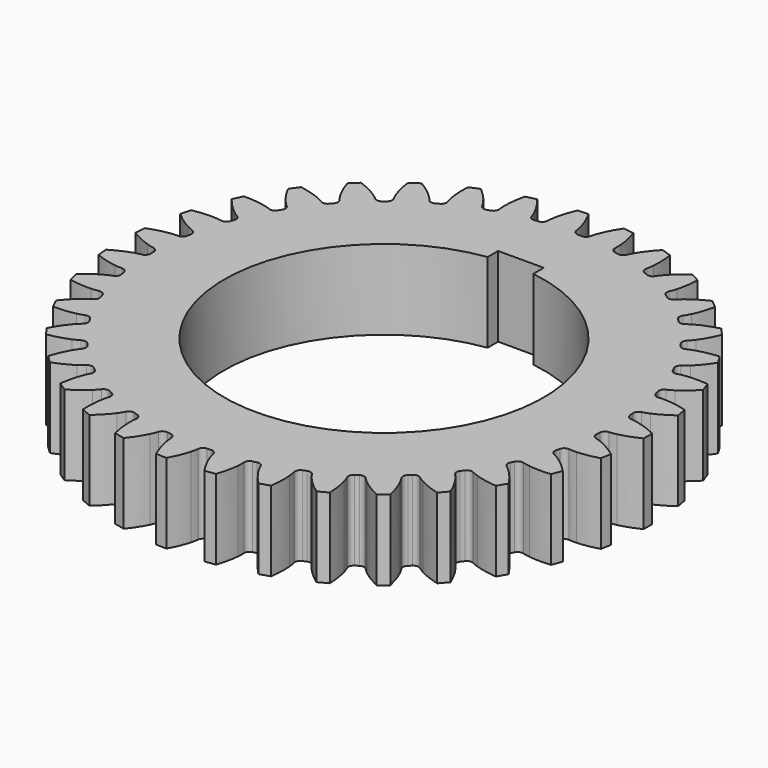
from build123d import *

# Parameters (mm, degrees)
PAD_DEPTH    = 7
POCKET_DEPTH = 7.001


with BuildPart() as part:
    # InvoluteGear001 → Pad (new body)
    with BuildSketch(Plane.XY):
        with BuildLine():
            add(Edge.make_bspline(
                [(20.694765, -1.22336), (20.829637, -1.213752), (21.040766, -1.188546), (21.325132, -1.124517)],
                knots=[0, 0, 0, 0, 1, 1, 1, 1], degree=3))
            add(Edge.make_bspline(
                [(21.325132, -1.124517), (21.76591, -1.025006), (22.374711, -0.833902), (23.121147, -0.468705)],
                knots=[0, 0, 0, 0, 1, 1, 1, 1], degree=3))
            ThreePointArc((23.121147, -0.468705), (23.125449, 0.000168), (23.120243, 0.469032))
            add(Edge.make_bspline(
                [(23.120243, 0.469032), (22.374711, 0.833902), (21.76591, 1.025006), (21.325132, 1.124517)],
                knots=[0, 0, 0, 0, 1, 1, 1, 1], degree=3))
            add(Edge.make_bspline(
                [(21.325132, 1.124517), (21.040766, 1.188546), (20.829637, 1.213752), (20.69493, 1.223341)],
                knots=[0, 0, 0, 0, 1, 1, 1, 1], degree=3))
            ThreePointArc((20.69493, 1.223341), (20.387577, 1.356587), (20.244595, 1.659532))
            ThreePointArc((20.244595, 1.659532), (20.230728, 1.820798), (20.215577, 1.981949))
            ThreePointArc((20.215577, 1.981949), (20.302125, 2.305483), (20.580631, 2.491493))
            add(Edge.make_bspline(
                [(20.580631, 2.491493), (20.71162, 2.525028), (20.914855, 2.587528), (21.183219, 2.701304)],
                knots=[0, 0, 0, 0, 1, 1, 1, 1], degree=3))
            add(Edge.make_bspline(
                [(21.183219, 2.701304), (21.599145, 2.87792), (22.164039, 3.174658), (22.833271, 3.667267)],
                knots=[0, 0, 0, 0, 1, 1, 1, 1], degree=3))
            ThreePointArc((22.833271, 3.667267), (22.753783, 4.129373), (22.664942, 4.589773))
            add(Edge.make_bspline(
                [(22.664942, 4.589773), (21.866241, 4.81566), (21.233101, 4.894987), (20.781638, 4.914195)],
                knots=[0, 0, 0, 0, 1, 1, 1, 1], degree=3))
            add(Edge.make_bspline(
                [(20.781638, 4.914195), (20.490409, 4.926419), (20.278172, 4.913522), (20.143918, 4.898904)],
                knots=[0, 0, 0, 0, 1, 1, 1, 1], degree=3))
            ThreePointArc((20.143918, 4.898904), (19.817713, 4.975129), (19.622935, 5.247675))
            ThreePointArc((19.622935, 5.247675), (19.580496, 5.403873), (19.536813, 5.559729))
            ThreePointArc((19.536813, 5.559729), (19.564202, 5.893518), (19.805019, 6.126267))
            add(Edge.make_bspline(
                [(19.805019, 6.126267), (19.927914, 6.182653), (20.116724, 6.280437), (20.360459, 6.440302)],
                knots=[0, 0, 0, 0, 1, 1, 1, 1], degree=3))
            add(Edge.make_bspline(
                [(20.360459, 6.440302), (20.738165, 6.688346), (21.240997, 7.081182), (21.811515, 7.685371)],
                knots=[0, 0, 0, 0, 1, 1, 1, 1], degree=3))
            ThreePointArc((21.811515, 7.685371), (21.650793, 8.125858), (21.481172, 8.562995))
            add(Edge.make_bspline(
                [(21.481172, 8.562995), (20.654972, 8.642639), (20.017843, 8.607639), (19.570205, 8.545926)],
                knots=[0, 0, 0, 0, 1, 1, 1, 1], degree=3))
            add(Edge.make_bspline(
                [(19.570205, 8.545926), (19.281474, 8.505953), (19.07495, 8.455367), (18.945463, 8.417012)],
                knots=[0, 0, 0, 0, 1, 1, 1, 1], degree=3))
            ThreePointArc((18.945463, 8.417012), (18.61089, 8.433766), (18.370577, 8.667153))
            ThreePointArc((18.370577, 8.667153), (18.30093, 8.813263), (18.230121, 8.958814))
            ThreePointArc((18.230121, 8.958814), (18.197469, 9.292129), (18.392857, 9.564138))
            add(Edge.make_bspline(
                [(18.392857, 9.564138), (18.503709, 9.641561), (18.672024, 9.771488), (18.883298, 9.972305)],
                knots=[0, 0, 0, 0, 1, 1, 1, 1], degree=3))
            add(Edge.make_bspline(
                [(18.883298, 9.972305), (19.210644, 10.283804), (19.635251, 10.76011), (20.088719, 11.45646)],
                knots=[0, 0, 0, 0, 1, 1, 1, 1], degree=3))
            ThreePointArc((20.088719, 11.45646), (19.851927, 11.86117), (19.606979, 12.260996))
            add(Edge.make_bspline(
                [(19.606979, 12.260996), (18.779835, 12.191835), (18.159194, 12.043635), (17.72977, 11.902985)],
                knots=[0, 0, 0, 0, 1, 1, 1, 1], degree=3))
            add(Edge.make_bspline(
                [(17.72977, 11.902985), (17.452816, 11.812099), (17.258644, 11.72545), (17.138087, 11.66459)],
                knots=[0, 0, 0, 0, 1, 1, 1, 1], degree=3))
            ThreePointArc((17.138087, 11.66459), (16.805899, 11.621334), (16.527775, 11.808062))
            ThreePointArc((16.527775, 11.808062), (16.433158, 11.939388), (16.337497, 12.069956))
            ThreePointArc((16.337497, 12.069956), (16.245854, 12.392085), (16.389533, 12.69461))
            add(Edge.make_bspline(
                [(16.389533, 12.69461), (16.48478, 12.790582), (16.627191, 12.948475), (16.799212, 13.183788)],
                knots=[0, 0, 0, 0, 1, 1, 1, 1], degree=3))
            add(Edge.make_bspline(
                [(16.799212, 13.183788), (17.065677, 13.548732), (17.398413, 14.093201), (17.720256, 14.859329)],
                knots=[0, 0, 0, 0, 1, 1, 1, 1], degree=3))
            ThreePointArc((17.720256, 14.859329), (17.415005, 15.215255), (17.102601, 15.564918))
            add(Edge.make_bspline(
                [(17.102601, 15.564918), (16.301099, 15.349177), (15.716895, 15.092538), (15.319485, 14.877472)],
                knots=[0, 0, 0, 0, 1, 1, 1, 1], degree=3))
            add(Edge.make_bspline(
                [(15.319485, 14.877472), (15.06321, 14.738594), (14.88763, 14.618667), (14.779877, 14.537259)],
                knots=[0, 0, 0, 0, 1, 1, 1, 1], degree=3))
            ThreePointArc((14.779877, 14.537259), (14.460752, 14.435384), (14.153756, 14.569449))
            ThreePointArc((14.153756, 14.569449), (14.03721, 14.681771), (13.919773, 14.79316))
            ThreePointArc((13.919773, 14.79316), (13.772085, 15.093748), (13.859437, 15.417066))
            add(Edge.make_bspline(
                [(13.859437, 15.417066), (13.936016, 15.528503), (14.047945, 15.709287), (14.175185, 15.971535)],
                knots=[0, 0, 0, 0, 1, 1, 1, 1], degree=3))
            add(Edge.make_bspline(
                [(14.175185, 15.971535), (14.372205, 16.378193), (14.602375, 16.973324), (14.782248, 17.784608)],
                knots=[0, 0, 0, 0, 1, 1, 1, 1], degree=3))
            ThreePointArc((14.782248, 17.784608), (14.41835, 18.080309), (14.048532, 18.36857))
            add(Edge.make_bspline(
                [(14.048532, 18.36857), (13.298433, 18.013183), (12.769441, 17.656355), (12.41682, 17.373784)],
                knots=[0, 0, 0, 0, 1, 1, 1, 1], degree=3))
            add(Edge.make_bspline(
                [(12.41682, 17.373784), (12.18946, 17.191379), (12.038116, 17.042028), (11.946631, 16.942689)],
                knots=[0, 0, 0, 0, 1, 1, 1, 1], degree=3))
            ThreePointArc((11.946631, 16.942689), (11.650824, 16.785468), (11.324824, 16.862563))
            ThreePointArc((11.324824, 16.862563), (11.190095, 16.952269), (11.054656, 17.040899))
            ThreePointArc((11.054656, 17.040899), (10.855669, 17.310286), (10.883886, 17.644006))
            add(Edge.make_bspline(
                [(10.883886, 17.644006), (10.939337, 17.767326), (11.017188, 17.96519), (11.095556, 18.245943)],
                knots=[0, 0, 0, 0, 1, 1, 1, 1], degree=3))
            add(Edge.make_bspline(
                [(11.095556, 18.245943), (11.216798, 18.681245), (11.337005, 19.30791), (11.369127, 20.138274)],
                knots=[0, 0, 0, 0, 1, 1, 1, 1], degree=3))
            ThreePointArc((11.369127, 20.138274), (10.958278, 20.364246), (10.542931, 20.581842))
            add(Edge.make_bspline(
                [(10.542931, 20.581842), (9.868343, 20.09823), (9.411567, 19.652681), (9.115067, 19.311689)],
                knots=[0, 0, 0, 0, 1, 1, 1, 1], degree=3))
            add(Edge.make_bspline(
                [(9.115067, 19.311689), (8.923931, 19.091619), (8.801687, 18.917644), (8.72941, 18.803566)],
                knots=[0, 0, 0, 0, 1, 1, 1, 1], degree=3))
            ThreePointArc((8.72941, 18.803566), (8.466429, 18.596054), (8.131902, 18.6137))
            ThreePointArc((8.131902, 18.6137), (7.983321, 18.677908), (7.834233, 18.74093))
            ThreePointArc((7.834233, 18.74093), (7.590343, 18.970457), (7.558519, 19.303852))
            add(Edge.make_bspline(
                [(7.558519, 19.303852), (7.591059, 19.435091), (7.632328, 19.643677), (7.659307, 19.933911)],
                knots=[0, 0, 0, 0, 1, 1, 1, 1], degree=3))
            add(Edge.make_bspline(
                [(7.659307, 19.933911), (7.700875, 20.383866), (7.707254, 21.021924), (7.590593, 21.84468)],
                knots=[0, 0, 0, 0, 1, 1, 1, 1], degree=3))
            ThreePointArc((7.590593, 21.84468), (7.145997, 21.993661), (6.698472, 22.133597))
            add(Edge.make_bspline(
                [(6.698472, 22.133597), (6.121078, 21.537304), (5.751197, 21.017355), (5.520349, 20.628901)],
                knots=[0, 0, 0, 0, 1, 1, 1, 1], degree=3))
            add(Edge.make_bspline(
                [(5.520349, 20.628901), (5.37158, 20.378238), (5.282365, 20.185232), (5.231618, 20.060081)],
                knots=[0, 0, 0, 0, 1, 1, 1, 1], degree=3))
            ThreePointArc((5.231618, 20.060081), (5.009917, 19.808947), (4.677615, 19.766577))
            ThreePointArc((4.677615, 19.766577), (4.519956, 19.803223), (4.362011, 19.838612))
            ThreePointArc((4.362011, 19.838612), (4.081057, 20.020902), (3.990215, 20.343257))
            add(Edge.make_bspline(
                [(3.990215, 20.343257), (3.998798, 20.478197), (4.00216, 20.690799), (3.976882, 20.981187)],
                knots=[0, 0, 0, 0, 1, 1, 1, 1], degree=3))
            add(Edge.make_bspline(
                [(3.976882, 20.981187), (3.937439, 21.431333), (3.829786, 22.060277), (3.568091, 22.848979)],
                knots=[0, 0, 0, 0, 1, 1, 1, 1], degree=3))
            ThreePointArc((3.568091, 22.848979), (3.104038, 22.91618), (2.638719, 22.973959))
            add(Edge.make_bspline(
                [(2.638719, 22.973959), (2.177075, 22.284152), (1.90598, 21.706513), (1.748202, 21.283082)],
                knots=[0, 0, 0, 0, 1, 1, 1, 1], degree=3))
            add(Edge.make_bspline(
                [(1.748202, 21.283082), (1.646582, 21.009884), (1.593263, 20.804049), (1.565678, 20.671849)],
                knots=[0, 0, 0, 0, 1, 1, 1, 1], degree=3))
            ThreePointArc((1.565678, 20.671849), (1.392381, 20.385164), (1.072985, 20.284141))
            ThreePointArc((1.072985, 20.284141), (0.911317, 20.292047), (0.749591, 20.298664))
            ThreePointArc((0.749591, 20.298664), (0.440603, 20.427859), (0.293661, 20.728813))
            add(Edge.make_bspline(
                [(0.293661, 20.728813), (0.278012, 20.863117), (0.243359, 21.072903), (0.166636, 21.35411)],
                knots=[0, 0, 0, 0, 1, 1, 1, 1], degree=3))
            add(Edge.make_bspline(
                [(0.166636, 21.35411), (0.04745, 21.78998), (-0.170775, 22.389594), (-0.569093, 23.118894)],
                knots=[0, 0, 0, 0, 1, 1, 1, 1], degree=3))
            ThreePointArc((-0.569093, 23.118894), (-1.037687, 23.102155), (-1.505845, 23.075919))
            add(Edge.make_bspline(
                [(-1.505845, 23.075919), (-1.8369, 22.314768), (-2.000498, 21.698007), (-2.080133, 21.253208)],
                knots=[0, 0, 0, 0, 1, 1, 1, 1], degree=3))
            add(Edge.make_bspline(
                [(-2.080133, 21.253208), (-2.131339, 20.966255), (-2.147048, 20.754208), (-2.150584, 20.619206)],
                knots=[0, 0, 0, 0, 1, 1, 1, 1], degree=3))
            ThreePointArc((-2.150584, 20.619206), (-2.269906, 20.306185), (-2.566132, 20.149755))
            ThreePointArc((-2.566132, 20.149755), (-2.726613, 20.128667), (-2.886922, 20.106301))
            ThreePointArc((-2.886922, 20.106301), (-3.214013, 20.178247), (-3.41233, 20.448128))
            add(Edge.make_bspline(
                [(-3.41233, 20.448128), (-3.451709, 20.577479), (-3.523264, 20.777706), (-3.648965, 21.040695)],
                knots=[0, 0, 0, 0, 1, 1, 1, 1], degree=3))
            add(Edge.make_bspline(
                [(-3.648965, 21.040695), (-3.844064, 21.448279), (-4.165847, 21.999291), (-4.687985, 22.645748)],
                knots=[0, 0, 0, 0, 1, 1, 1, 1], degree=3))
            ThreePointArc((-4.687985, 22.645748), (-5.14606, 22.545608), (-5.60201, 22.436201))
            add(Edge.make_bspline(
                [(-5.60201, 22.436201), (-5.791836, 21.628169), (-5.842678, 20.992108), (-5.841611, 20.540238)],
                knots=[0, 0, 0, 0, 1, 1, 1, 1], degree=3))
            add(Edge.make_bspline(
                [(-5.841611, 20.540238), (-5.840757, 20.248754), (-5.818351, 20.037309), (-5.797725, 19.903846)],
                knots=[0, 0, 0, 0, 1, 1, 1, 1], degree=3))
            ThreePointArc((-5.797725, 19.903846), (-5.859238, 19.574549), (-6.122771, 19.36774))
            ThreePointArc((-6.122771, 19.36774), (-6.276908, 19.318335), (-6.430646, 19.267705))
            ThreePointArc((-6.430646, 19.267705), (-6.765328, 19.28009), (-7.008647, 19.510223))
            add(Edge.make_bspline(
                [(-7.008647, 19.510223), (-7.07049, 19.630464), (-7.176647, 19.814697), (-7.347286, 20.051014)],
                knots=[0, 0, 0, 0, 1, 1, 1, 1], degree=3))
            add(Edge.make_bspline(
                [(-7.347286, 20.051014), (-7.612026, 20.417212), (-8.027025, 20.901912), (-8.656202, 21.44475)],
                knots=[0, 0, 0, 0, 1, 1, 1, 1], degree=3))
            ThreePointArc((-8.656202, 21.44475), (-9.089035, 21.264426), (-9.518122, 21.075364))
            add(Edge.make_bspline(
                [(-9.518122, 21.075364), (-9.560618, 20.246423), (-9.497069, 19.611506), (-9.415335, 19.167088)],
                knots=[0, 0, 0, 0, 1, 1, 1, 1], degree=3))
            add(Edge.make_bspline(
                [(-9.415335, 19.167088), (-9.362448, 18.88044), (-9.302648, 18.676394), (-9.258522, 18.548759)],
                knots=[0, 0, 0, 0, 1, 1, 1, 1], degree=3))
            ThreePointArc((-9.258522, 18.548759), (-9.260248, 18.213771), (-9.482619, 17.963229))
            ThreePointArc((-9.482619, 17.963229), (-9.625457, 17.887097), (-9.767685, 17.809829))
            ThreePointArc((-9.767685, 17.809829), (-10.099199, 17.762255), (-10.3797, 17.945243))
            add(Edge.make_bspline(
                [(-10.3797, 17.945243), (-10.462019, 18.05251), (-10.599366, 18.214827), (-10.809459, 18.416878)],
                knots=[0, 0, 0, 0, 1, 1, 1, 1], degree=3))
            add(Edge.make_bspline(
                [(-10.809459, 18.416878), (-11.135332, 18.729919), (-11.630208, 19.132729), (-12.346201, 19.554499)],
                knots=[0, 0, 0, 0, 1, 1, 1, 1], degree=3))
            ThreePointArc((-12.346201, 19.554499), (-12.73988, 19.299789), (-13.128314, 19.037148))
            add(Edge.make_bspline(
                [(-13.128314, 19.037148), (-13.022113, 18.213941), (-12.846217, 17.600574), (-12.686443, 17.177892)],
                knots=[0, 0, 0, 0, 1, 1, 1, 1], degree=3))
            add(Edge.make_bspline(
                [(-12.686443, 17.177892), (-12.583223, 16.905294), (-12.487949, 16.715205), (-12.421742, 16.5975)],
                knots=[0, 0, 0, 0, 1, 1, 1, 1], degree=3))
            ThreePointArc((-12.421742, 16.5975), (-12.363626, 16.267587), (-12.537687, 15.981366))
            ThreePointArc((-12.537687, 15.981366), (-12.664637, 15.880952), (-12.790782, 15.77953))
            ThreePointArc((-12.790782, 15.77953), (-13.108474, 15.673527), (-13.417141, 15.803489))
            add(Edge.make_bspline(
                [(-13.417141, 15.803489), (-13.51729, 15.894333), (-13.681413, 16.029517), (-13.924207, 16.190808)],
                knots=[0, 0, 0, 0, 1, 1, 1, 1], degree=3))
            add(Edge.make_bspline(
                [(-13.924207, 16.190808), (-14.300738, 16.440631), (-14.859586, 16.748605), (-15.639383, 17.035751)],
                knots=[0, 0, 0, 0, 1, 1, 1, 1], degree=3))
            ThreePointArc((-15.639383, 17.035751), (-15.981255, 16.71484), (-16.31655, 16.387062))
            add(Edge.make_bspline(
                [(-16.31655, 16.387062), (-16.065067, 15.596047), (-15.782477, 15.023945), (-15.549797, 14.636584)],
                knots=[0, 0, 0, 0, 1, 1, 1, 1], degree=3))
            add(Edge.make_bspline(
                [(-15.549797, 14.636584), (-15.399562, 14.386798), (-15.271878, 14.216775), (-15.185718, 14.112783)],
                knots=[0, 0, 0, 0, 1, 1, 1, 1], degree=3))
            ThreePointArc((-15.185718, 14.112783), (-15.069628, 13.798549), (-15.189785, 13.485848))
            ThreePointArc((-15.189785, 13.485848), (-15.296764, 13.36438), (-15.402772, 13.242064))
            ThreePointArc((-15.402772, 13.242064), (-15.696432, 13.081039), (-16.023344, 13.153797))
            add(Edge.make_bspline(
                [(-16.023344, 13.153797), (-16.138104, 13.225299), (-16.323727, 13.329006), (-16.59142, 13.444351)],
                knots=[0, 0, 0, 0, 1, 1, 1, 1], degree=3))
            add(Edge.make_bspline(
                [(-16.59142, 13.444351), (-17.006508, 13.622928), (-17.611366, 13.826166), (-18.429903, 13.96946)],
                knots=[0, 0, 0, 0, 1, 1, 1, 1], degree=3))
            ThreePointArc((-18.429903, 13.96946), (-18.70898, 13.592662), (-18.98036, 13.210283))
            add(Edge.make_bspline(
                [(-18.98036, 13.210283), (-18.591677, 12.476884), (-18.211475, 11.964434), (-17.913369, 11.624845)],
                knots=[0, 0, 0, 0, 1, 1, 1, 1], degree=3))
            add(Edge.make_bspline(
                [(-17.913369, 11.624845), (-17.720947, 11.405898), (-17.564956, 11.261407), (-17.461612, 11.17447)],
                knots=[0, 0, 0, 0, 1, 1, 1, 1], degree=3))
            ThreePointArc((-17.461612, 11.17447), (-17.291279, 10.886015), (-17.35367, 10.556884))
            ThreePointArc((-17.35367, 10.556884), (-17.437241, 10.418267), (-17.519705, 10.278987))
            ThreePointArc((-17.519705, 10.278987), (-17.779893, 10.068115), (-18.114543, 10.081332))
            add(Edge.make_bspline(
                [(-18.114543, 10.081332), (-18.240227, 10.131194), (-18.441384, 10.200089), (-18.72537, 10.265783)],
                knots=[0, 0, 0, 0, 1, 1, 1, 1], degree=3))
            add(Edge.make_bspline(
                [(-18.72537, 10.265783), (-19.165674, 10.367373), (-19.797101, 10.459343), (-20.62807, 10.454179)],
                knots=[0, 0, 0, 0, 1, 1, 1, 1], degree=3))
            ThreePointArc((-20.62807, 10.454179), (-20.835382, 10.033605), (-21.034124, 9.608914))
            add(Edge.make_bspline(
                [(-21.034124, 9.608914), (-20.520734, 8.956703), (-20.055141, 8.520376), (-19.70119, 8.239473)],
                knots=[0, 0, 0, 0, 1, 1, 1, 1], degree=3))
            add(Edge.make_bspline(
                [(-19.70119, 8.239473), (-19.472766, 8.058403), (-19.293481, 7.944087), (-19.176275, 7.877001)],
                knots=[0, 0, 0, 0, 1, 1, 1, 1], degree=3))
            ThreePointArc((-19.176275, 7.877001), (-18.957174, 7.623595), (-18.959794, 7.288613))
            ThreePointArc((-18.959794, 7.288613), (-19.017271, 7.137301), (-19.07354, 6.985536))
            ThreePointArc((-19.07354, 6.985536), (-19.291894, 6.731593), (-19.623526, 6.684844))
            add(Edge.make_bspline(
                [(-19.623526, 6.684844), (-19.756093, 6.711463), (-19.96632, 6.743333), (-20.257472, 6.757263)],
                knots=[0, 0, 0, 0, 1, 1, 1, 1], degree=3))
            add(Edge.make_bspline(
                [(-20.257472, 6.757263), (-20.70884, 6.778602), (-21.346541, 6.756348), (-22.163234, 6.602892)],
                knots=[0, 0, 0, 0, 1, 1, 1, 1], degree=3))
            ThreePointArc((-22.163234, 6.602892), (-22.292118, 6.15206), (-22.411835, 5.698707))
            add(Edge.make_bspline(
                [(-22.411835, 5.698707), (-21.790239, 5.148646), (-21.254218, 4.802466), (-20.855798, 4.589278)],
                knots=[0, 0, 0, 0, 1, 1, 1, 1], degree=3))
            add(Edge.make_bspline(
                [(-20.855798, 4.589278), (-20.598714, 4.451905), (-20.401899, 4.371439), (-20.274598, 4.326358)],
                knots=[0, 0, 0, 0, 1, 1, 1, 1], degree=3))
            ThreePointArc((-20.274598, 4.326358), (-20.01377, 4.116147), (-19.956534, 3.78608))
            ThreePointArc((-19.956534, 3.78608), (-19.98607, 3.626937), (-20.014336, 3.467563))
            ThreePointArc((-20.014336, 3.467563), (-20.183838, 3.178713), (-20.501793, 3.0735))
            add(Edge.make_bspline(
                [(-20.501793, 3.0735), (-20.636983, 3.07602), (-20.849521, 3.069841), (-21.138482, 3.03156)],
                knots=[0, 0, 0, 0, 1, 1, 1, 1], degree=3))
            add(Edge.make_bspline(
                [(-21.138482, 3.03156), (-21.586406, 2.971961), (-22.209886, 2.836199), (-22.986054, 2.539382)],
                knots=[0, 0, 0, 0, 1, 1, 1, 1], degree=3))
            ThreePointArc((-22.986054, 2.539382), (-23.032368, 2.072782), (-23.069211, 1.605339))
            add(Edge.make_bspline(
                [(-23.069211, 1.605339), (-22.359387, 1.175108), (-21.770168, 0.930201), (-21.340084, 0.79158)],
                knots=[0, 0, 0, 0, 1, 1, 1, 1], degree=3))
            add(Edge.make_bspline(
                [(-21.340084, 0.79158), (-21.062602, 0.702319), (-20.854582, 0.658288), (-20.721278, 0.636663)],
                knots=[0, 0, 0, 0, 1, 1, 1, 1], degree=3))
            ThreePointArc((-20.721278, 0.636663), (-20.427107, 0.476402), (-20.311855, 0.16186))
            ThreePointArc((-20.311855, 0.16186), (-20.3125, 0), (-20.311855, -0.16186))
            ThreePointArc((-20.311855, -0.16186), (-20.427057, -0.476334), (-20.721116, -0.636629))
            add(Edge.make_bspline(
                [(-20.721116, -0.636629), (-20.854582, -0.658288), (-21.062602, -0.702319), (-21.340084, -0.79158)],
                knots=[0, 0, 0, 0, 1, 1, 1, 1], degree=3))
            add(Edge.make_bspline(
                [(-21.340084, -0.79158), (-21.770168, -0.930201), (-22.359387, -1.175108), (-23.070083, -1.605745)],
                knots=[0, 0, 0, 0, 1, 1, 1, 1], degree=3))
            ThreePointArc((-23.070083, -1.605745), (-23.032337, -2.073116), (-22.985124, -2.539626))
            add(Edge.make_bspline(
                [(-22.985124, -2.539626), (-22.209886, -2.836199), (-21.586406, -2.971961), (-21.138482, -3.03156)],
                knots=[0, 0, 0, 0, 1, 1, 1, 1], degree=3))
            add(Edge.make_bspline(
                [(-21.138482, -3.03156), (-20.849521, -3.069841), (-20.636983, -3.07602), (-20.501959, -3.073496)],
                knots=[0, 0, 0, 0, 1, 1, 1, 1], degree=3))
            ThreePointArc((-20.501959, -3.073496), (-20.183899, -3.178654), (-20.014336, -3.467563))
            ThreePointArc((-20.014336, -3.467563), (-19.98607, -3.626937), (-19.956534, -3.78608))
            ThreePointArc((-19.956534, -3.78608), (-20.013733, -4.11607), (-20.274444, -4.326296))
            add(Edge.make_bspline(
                [(-20.274444, -4.326296), (-20.401899, -4.371439), (-20.598714, -4.451905), (-20.855798, -4.589278)],
                knots=[0, 0, 0, 0, 1, 1, 1, 1], degree=3))
            add(Edge.make_bspline(
                [(-20.855798, -4.589278), (-21.254218, -4.802466), (-21.790239, -5.148646), (-22.41262, -5.699262)],
                knots=[0, 0, 0, 0, 1, 1, 1, 1], degree=3))
            ThreePointArc((-22.41262, -5.699262), (-22.292029, -6.152383), (-22.162276, -6.602966))
            add(Edge.make_bspline(
                [(-22.162276, -6.602966), (-21.346541, -6.756348), (-20.70884, -6.778602), (-20.257472, -6.757263)],
                knots=[0, 0, 0, 0, 1, 1, 1, 1], degree=3))
            add(Edge.make_bspline(
                [(-20.257472, -6.757263), (-19.96632, -6.743333), (-19.756093, -6.711463), (-19.62369, -6.68487)],
                knots=[0, 0, 0, 0, 1, 1, 1, 1], degree=3))
            ThreePointArc((-19.62369, -6.68487), (-19.291965, -6.731547), (-19.07354, -6.985536))
            ThreePointArc((-19.07354, -6.985536), (-19.017271, -7.137301), (-18.959794, -7.288613))
            ThreePointArc((-18.959794, -7.288613), (-18.957151, -7.623514), (-19.176135, -7.876913))
            add(Edge.make_bspline(
                [(-19.176135, -7.876913), (-19.293481, -7.944087), (-19.472766, -8.058403), (-19.70119, -8.239473)],
                knots=[0, 0, 0, 0, 1, 1, 1, 1], degree=3))
            add(Edge.make_bspline(
                [(-19.70119, -8.239473), (-20.055141, -8.520376), (-20.520734, -8.956703), (-21.034797, -9.609601)],
                knots=[0, 0, 0, 0, 1, 1, 1, 1], degree=3))
            ThreePointArc((-21.034797, -9.609601), (-20.835237, -10.033907), (-20.627114, -10.454081))
            add(Edge.make_bspline(
                [(-20.627114, -10.454081), (-19.797101, -10.459343), (-19.165674, -10.367373), (-18.72537, -10.265783)],
                knots=[0, 0, 0, 0, 1, 1, 1, 1], degree=3))
            add(Edge.make_bspline(
                [(-18.72537, -10.265783), (-18.441384, -10.200089), (-18.240227, -10.131194), (-18.114699, -10.081386)],
                knots=[0, 0, 0, 0, 1, 1, 1, 1], degree=3))
            ThreePointArc((-18.114699, -10.081386), (-17.779971, -10.068081), (-17.519705, -10.278987))
            ThreePointArc((-17.519705, -10.278987), (-17.437241, -10.418267), (-17.35367, -10.556884))
            ThreePointArc((-17.35367, -10.556884), (-17.291271, -10.885931), (-17.46149, -11.174359))
            add(Edge.make_bspline(
                [(-17.46149, -11.174359), (-17.564956, -11.261407), (-17.720947, -11.405898), (-17.913369, -11.624845)],
                knots=[0, 0, 0, 0, 1, 1, 1, 1], degree=3))
            add(Edge.make_bspline(
                [(-17.913369, -11.624845), (-18.211475, -11.964434), (-18.591677, -12.476884), (-18.980899, -13.211079)],
                knots=[0, 0, 0, 0, 1, 1, 1, 1], degree=3))
            ThreePointArc((-18.980899, -13.211079), (-18.708782, -13.592934), (-18.428979, -13.969193))
            add(Edge.make_bspline(
                [(-18.428979, -13.969193), (-17.611366, -13.826166), (-17.006508, -13.622928), (-16.59142, -13.444351)],
                knots=[0, 0, 0, 0, 1, 1, 1, 1], degree=3))
            add(Edge.make_bspline(
                [(-16.59142, -13.444351), (-16.323727, -13.329006), (-16.138104, -13.225299), (-16.023488, -13.153879)],
                knots=[0, 0, 0, 0, 1, 1, 1, 1], degree=3))
            ThreePointArc((-16.023488, -13.153879), (-15.696515, -13.081019), (-15.402772, -13.242064))
            ThreePointArc((-15.402772, -13.242064), (-15.296764, -13.36438), (-15.189785, -13.485848))
            ThreePointArc((-15.189785, -13.485848), (-15.069635, -13.798465), (-15.185618, -14.112651))
            add(Edge.make_bspline(
                [(-15.185618, -14.112651), (-15.271878, -14.216775), (-15.399562, -14.386798), (-15.549797, -14.636584)],
                knots=[0, 0, 0, 0, 1, 1, 1, 1], degree=3))
            add(Edge.make_bspline(
                [(-15.549797, -14.636584), (-15.782477, -15.023945), (-16.065067, -15.596047), (-16.316939, -16.387942)],
                knots=[0, 0, 0, 0, 1, 1, 1, 1], degree=3))
            ThreePointArc((-16.316939, -16.387942), (-15.981013, -16.715072), (-15.638522, -17.035323))
            add(Edge.make_bspline(
                [(-15.638522, -17.035323), (-14.859586, -16.748605), (-14.300738, -16.440631), (-13.924207, -16.190808)],
                knots=[0, 0, 0, 0, 1, 1, 1, 1], degree=3))
            add(Edge.make_bspline(
                [(-13.924207, -16.190808), (-13.681413, -16.029517), (-13.51729, -15.894333), (-13.417268, -15.803594)],
                knots=[0, 0, 0, 0, 1, 1, 1, 1], degree=3))
            ThreePointArc((-13.417268, -15.803594), (-13.108559, -15.673523), (-12.790782, -15.77953))
            ThreePointArc((-12.790782, -15.77953), (-12.664637, -15.880952), (-12.537687, -15.981366))
            ThreePointArc((-12.537687, -15.981366), (-12.363649, -16.267505), (-12.421668, -16.597352))
            add(Edge.make_bspline(
                [(-12.421668, -16.597352), (-12.487949, -16.715205), (-12.583223, -16.905294), (-12.686443, -17.177892)],
                knots=[0, 0, 0, 0, 1, 1, 1, 1], degree=3))
            add(Edge.make_bspline(
                [(-12.686443, -17.177892), (-12.846217, -17.600574), (-13.022113, -18.213941), (-13.128539, -19.038083)],
                knots=[0, 0, 0, 0, 1, 1, 1, 1], degree=3))
            ThreePointArc((-13.128539, -19.038083), (-12.7396, -19.299973), (-12.345431, -19.553925))
            add(Edge.make_bspline(
                [(-12.345431, -19.553925), (-11.630208, -19.132729), (-11.135332, -18.729919), (-10.809459, -18.416878)],
                knots=[0, 0, 0, 0, 1, 1, 1, 1], degree=3))
            add(Edge.make_bspline(
                [(-10.809459, -18.416878), (-10.599366, -18.214827), (-10.462019, -18.05251), (-10.379806, -17.94537)],
                knots=[0, 0, 0, 0, 1, 1, 1, 1], degree=3))
            ThreePointArc((-10.379806, -17.94537), (-10.099283, -17.762267), (-9.767685, -17.809829))
            ThreePointArc((-9.767685, -17.809829), (-9.625457, -17.887097), (-9.482619, -17.963229))
            ThreePointArc((-9.482619, -17.963229), (-9.260285, -18.213694), (-9.258475, -18.5486))
            add(Edge.make_bspline(
                [(-9.258475, -18.5486), (-9.302648, -18.676394), (-9.362448, -18.88044), (-9.415335, -19.167088)],
                knots=[0, 0, 0, 0, 1, 1, 1, 1], degree=3))
            add(Edge.make_bspline(
                [(-9.415335, -19.167088), (-9.497069, -19.611506), (-9.560618, -20.246423), (-9.518177, -21.076324)],
                knots=[0, 0, 0, 0, 1, 1, 1, 1], degree=3))
            ThreePointArc((-9.518177, -21.076324), (-9.088726, -21.264558), (-8.655546, -21.444047))
            add(Edge.make_bspline(
                [(-8.655546, -21.444047), (-8.027025, -20.901912), (-7.612026, -20.417212), (-7.347286, -20.051014)],
                knots=[0, 0, 0, 0, 1, 1, 1, 1], degree=3))
            add(Edge.make_bspline(
                [(-7.347286, -20.051014), (-7.176647, -19.814697), (-7.07049, -19.630464), (-7.008729, -19.510366)],
                knots=[0, 0, 0, 0, 1, 1, 1, 1], degree=3))
            ThreePointArc((-7.008729, -19.510366), (-6.765409, -19.280116), (-6.430646, -19.267705))
            ThreePointArc((-6.430646, -19.267705), (-6.276908, -19.318335), (-6.122771, -19.36774))
            ThreePointArc((-6.122771, -19.36774), (-5.859288, -19.574481), (-5.797707, -19.903681))
            add(Edge.make_bspline(
                [(-5.797707, -19.903681), (-5.818351, -20.037309), (-5.840757, -20.248754), (-5.841611, -20.540238)],
                knots=[0, 0, 0, 0, 1, 1, 1, 1], degree=3))
            add(Edge.make_bspline(
                [(-5.841611, -20.540238), (-5.842678, -20.992108), (-5.791836, -21.628169), (-5.601893, -22.437155)],
                knots=[0, 0, 0, 0, 1, 1, 1, 1], degree=3))
            ThreePointArc((-5.601893, -22.437155), (-5.145733, -22.545683), (-4.687466, -22.64494))
            add(Edge.make_bspline(
                [(-4.687466, -22.64494), (-4.165847, -21.999291), (-3.844064, -21.448279), (-3.648965, -21.040695)],
                knots=[0, 0, 0, 0, 1, 1, 1, 1], degree=3))
            add(Edge.make_bspline(
                [(-3.648965, -21.040695), (-3.523264, -20.777706), (-3.451709, -20.577479), (-3.412385, -20.448284)],
                knots=[0, 0, 0, 0, 1, 1, 1, 1], degree=3))
            ThreePointArc((-3.412385, -20.448284), (-3.214088, -20.178287), (-2.886922, -20.106301))
            ThreePointArc((-2.886922, -20.106301), (-2.726613, -20.128667), (-2.566132, -20.149755))
            ThreePointArc((-2.566132, -20.149755), (-2.269968, -20.306127), (-2.150596, -20.619041))
            add(Edge.make_bspline(
                [(-2.150596, -20.619041), (-2.147048, -20.754208), (-2.131339, -20.966255), (-2.080133, -21.253208)],
                knots=[0, 0, 0, 0, 1, 1, 1, 1], degree=3))
            add(Edge.make_bspline(
                [(-2.080133, -21.253208), (-2.000498, -21.698007), (-1.8369, -22.314768), (-1.50556, -23.076837)],
                knots=[0, 0, 0, 0, 1, 1, 1, 1], degree=3))
            ThreePointArc((-1.50556, -23.076837), (-1.037352, -23.10217), (-0.568726, -23.118005))
            add(Edge.make_bspline(
                [(-0.568726, -23.118005), (-0.170775, -22.389594), (0.04745, -21.78998), (0.166636, -21.35411)],
                knots=[0, 0, 0, 0, 1, 1, 1, 1], degree=3))
            add(Edge.make_bspline(
                [(0.166636, -21.35411), (0.243359, -21.072903), (0.278012, -20.863117), (0.293635, -20.728976)],
                knots=[0, 0, 0, 0, 1, 1, 1, 1], degree=3))
            ThreePointArc((0.293635, -20.728976), (0.440536, -20.427912), (0.749591, -20.298664))
            ThreePointArc((0.749591, -20.298664), (0.911317, -20.292047), (1.072985, -20.284141))
            ThreePointArc((1.072985, -20.284141), (1.39231, -20.385117), (1.565637, -20.671688))
            add(Edge.make_bspline(
                [(1.565637, -20.671688), (1.593263, -20.804049), (1.646582, -21.009884), (1.748202, -21.283082)],
                knots=[0, 0, 0, 0, 1, 1, 1, 1], degree=3))
            add(Edge.make_bspline(
                [(1.748202, -21.283082), (1.90598, -21.706513), (2.177075, -22.284152), (2.639164, -22.974811)],
                knots=[0, 0, 0, 0, 1, 1, 1, 1], degree=3))
            ThreePointArc((2.639164, -22.974811), (3.104371, -22.916135), (3.568293, -22.84804))
            add(Edge.make_bspline(
                [(3.568293, -22.84804), (3.829786, -22.060277), (3.937439, -21.431333), (3.976882, -20.981187)],
                knots=[0, 0, 0, 0, 1, 1, 1, 1], degree=3))
            add(Edge.make_bspline(
                [(3.976882, -20.981187), (4.00216, -20.690799), (3.998798, -20.478197), (3.990218, -20.343423)],
                knots=[0, 0, 0, 0, 1, 1, 1, 1], degree=3))
            ThreePointArc((3.990218, -20.343423), (4.081001, -20.020966), (4.362011, -19.838612))
            ThreePointArc((4.362011, -19.838612), (4.519956, -19.803223), (4.677615, -19.766577))
            ThreePointArc((4.677615, -19.766577), (5.009839, -19.808914), (5.231549, -20.059931))
            add(Edge.make_bspline(
                [(5.231549, -20.059931), (5.282365, -20.185232), (5.37158, -20.378238), (5.520349, -20.628901)],
                knots=[0, 0, 0, 0, 1, 1, 1, 1], degree=3))
            add(Edge.make_bspline(
                [(5.520349, -20.628901), (5.751197, -21.017355), (6.121078, -21.537304), (6.699062, -22.134356)],
                knots=[0, 0, 0, 0, 1, 1, 1, 1], degree=3))
            ThreePointArc((6.699062, -22.134356), (7.146316, -21.993557), (7.590624, -21.843719))
            add(Edge.make_bspline(
                [(7.590624, -21.843719), (7.707254, -21.021924), (7.700875, -20.383866), (7.659307, -19.933911)],
                knots=[0, 0, 0, 0, 1, 1, 1, 1], degree=3))
            add(Edge.make_bspline(
                [(7.659307, -19.933911), (7.632328, -19.643677), (7.591059, -19.435091), (7.558552, -19.304014)],
                knots=[0, 0, 0, 0, 1, 1, 1, 1], degree=3))
            ThreePointArc((7.558552, -19.304014), (7.590299, -18.97053), (7.834233, -18.74093))
            ThreePointArc((7.834233, -18.74093), (7.983321, -18.677908), (8.131902, -18.6137))
            ThreePointArc((8.131902, -18.6137), (8.466347, -18.596035), (8.729315, -18.80343))
            add(Edge.make_bspline(
                [(8.729315, -18.80343), (8.801687, -18.917644), (8.923931, -19.091619), (9.115067, -19.311689)],
                knots=[0, 0, 0, 0, 1, 1, 1, 1], degree=3))
            add(Edge.make_bspline(
                [(9.115067, -19.311689), (9.411567, -19.652681), (9.868343, -20.09823), (10.543647, -20.582484)],
                knots=[0, 0, 0, 0, 1, 1, 1, 1], degree=3))
            ThreePointArc((10.543647, -20.582484), (10.958573, -20.364087), (11.368986, -20.137323))
            add(Edge.make_bspline(
                [(11.368986, -20.137323), (11.337005, -19.30791), (11.216798, -18.681245), (11.095556, -18.245943)],
                knots=[0, 0, 0, 0, 1, 1, 1, 1], degree=3))
            add(Edge.make_bspline(
                [(11.095556, -18.245943), (11.017188, -17.96519), (10.939337, -17.767326), (10.883948, -17.644159)],
                knots=[0, 0, 0, 0, 1, 1, 1, 1], degree=3))
            ThreePointArc((10.883948, -17.644159), (10.855639, -17.310365), (11.054656, -17.040899))
            ThreePointArc((11.054656, -17.040899), (11.190095, -16.952269), (11.324824, -16.862563))
            ThreePointArc((11.324824, -16.862563), (11.650739, -16.785465), (11.946514, -16.942572))
            add(Edge.make_bspline(
                [(11.946514, -16.942572), (12.038116, -17.042028), (12.18946, -17.191379), (12.41682, -17.373784)],
                knots=[0, 0, 0, 0, 1, 1, 1, 1], degree=3))
            add(Edge.make_bspline(
                [(12.41682, -17.373784), (12.769441, -17.656355), (13.298433, -18.013183), (14.049351, -18.369074)],
                knots=[0, 0, 0, 0, 1, 1, 1, 1], degree=3))
            ThreePointArc((14.049351, -18.369074), (14.418613, -18.080099), (14.78194, -17.783697))
            add(Edge.make_bspline(
                [(14.78194, -17.783697), (14.602375, -16.973324), (14.372205, -16.378193), (14.175185, -15.971535)],
                knots=[0, 0, 0, 0, 1, 1, 1, 1], degree=3))
            add(Edge.make_bspline(
                [(14.175185, -15.971535), (14.047945, -15.709287), (13.936016, -15.528503), (13.859524, -15.417207)],
                knots=[0, 0, 0, 0, 1, 1, 1, 1], degree=3))
            ThreePointArc((13.859524, -15.417207), (13.772069, -15.093832), (13.919773, -14.79316))
            ThreePointArc((13.919773, -14.79316), (14.03721, -14.681771), (14.153756, -14.569449))
            ThreePointArc((14.153756, -14.569449), (14.460667, -14.435395), (14.779741, -14.537165))
            add(Edge.make_bspline(
                [(14.779741, -14.537165), (14.88763, -14.618667), (15.06321, -14.738594), (15.319485, -14.877472)],
                knots=[0, 0, 0, 0, 1, 1, 1, 1], degree=3))
            add(Edge.make_bspline(
                [(15.319485, -14.877472), (15.716895, -15.092538), (16.301099, -15.349177), (17.103497, -15.565267)],
                knots=[0, 0, 0, 0, 1, 1, 1, 1], degree=3))
            ThreePointArc((17.103497, -15.565267), (17.415226, -15.215002), (17.71979, -14.858489))
            add(Edge.make_bspline(
                [(17.71979, -14.858489), (17.398413, -14.093201), (17.065677, -13.548732), (16.799212, -13.183788)],
                knots=[0, 0, 0, 0, 1, 1, 1, 1], degree=3))
            add(Edge.make_bspline(
                [(16.799212, -13.183788), (16.627191, -12.948475), (16.48478, -12.790582), (16.389645, -12.694732)],
                knots=[0, 0, 0, 0, 1, 1, 1, 1], degree=3))
            ThreePointArc((16.389645, -12.694732), (16.245854, -12.39217), (16.337497, -12.069956))
            ThreePointArc((16.337497, -12.069956), (16.433158, -11.939388), (16.527775, -11.808062))
            ThreePointArc((16.527775, -11.808062), (16.805818, -11.621361), (17.137936, -11.664522))
            add(Edge.make_bspline(
                [(17.137936, -11.664522), (17.258644, -11.72545), (17.452816, -11.812099), (17.72977, -11.902985)],
                knots=[0, 0, 0, 0, 1, 1, 1, 1], degree=3))
            add(Edge.make_bspline(
                [(17.72977, -11.902985), (18.159194, -12.043635), (18.779835, -12.191835), (19.607922, -12.261179)],
                knots=[0, 0, 0, 0, 1, 1, 1, 1], degree=3))
            ThreePointArc((19.607922, -12.261179), (19.8521, -11.860882), (20.088111, -11.455716))
            add(Edge.make_bspline(
                [(20.088111, -11.455716), (19.635251, -10.76011), (19.210644, -10.283804), (18.883298, -9.972305)],
                knots=[0, 0, 0, 0, 1, 1, 1, 1], degree=3))
            add(Edge.make_bspline(
                [(18.883298, -9.972305), (18.672024, -9.771488), (18.503709, -9.641561), (18.392988, -9.564239)],
                knots=[0, 0, 0, 0, 1, 1, 1, 1], degree=3))
            ThreePointArc((18.392988, -9.564239), (18.197484, -9.292213), (18.230121, -8.958814))
            ThreePointArc((18.230121, -8.958814), (18.30093, -8.813263), (18.370577, -8.667153))
            ThreePointArc((18.370577, -8.667153), (18.610816, -8.433806), (18.945303, -8.416972))
            add(Edge.make_bspline(
                [(18.945303, -8.416972), (19.07495, -8.455367), (19.281474, -8.505953), (19.570205, -8.545926)],
                knots=[0, 0, 0, 0, 1, 1, 1, 1], degree=3))
            add(Edge.make_bspline(
                [(19.570205, -8.545926), (20.017843, -8.607639), (20.654972, -8.642639), (21.482133, -8.563007)],
                knots=[0, 0, 0, 0, 1, 1, 1, 1], degree=3))
            ThreePointArc((21.482133, -8.563007), (21.65091, -8.125543), (21.810784, -7.684747))
            add(Edge.make_bspline(
                [(21.810784, -7.684747), (21.240997, -7.081182), (20.738165, -6.688346), (20.360459, -6.440302)],
                knots=[0, 0, 0, 0, 1, 1, 1, 1], degree=3))
            add(Edge.make_bspline(
                [(20.360459, -6.440302), (20.116724, -6.280437), (19.927914, -6.182653), (19.805166, -6.126342)],
                knots=[0, 0, 0, 0, 1, 1, 1, 1], degree=3))
            ThreePointArc((19.805166, -6.126342), (19.564232, -5.893597), (19.536813, -5.559729))
            ThreePointArc((19.536813, -5.559729), (19.580496, -5.403873), (19.622935, -5.247675))
            ThreePointArc((19.622935, -5.247675), (19.817646, -4.975182), (20.143753, -4.898894))
            add(Edge.make_bspline(
                [(20.143753, -4.898894), (20.278172, -4.913522), (20.490409, -4.926419), (20.781638, -4.914195)],
                knots=[0, 0, 0, 0, 1, 1, 1, 1], degree=3))
            add(Edge.make_bspline(
                [(20.781638, -4.914195), (21.233101, -4.894987), (21.866241, -4.81566), (22.66589, -4.589613)],
                knots=[0, 0, 0, 0, 1, 1, 1, 1], degree=3))
            ThreePointArc((22.66589, -4.589613), (22.753843, -4.129043), (22.83244, -3.666784))
            add(Edge.make_bspline(
                [(22.83244, -3.666784), (22.164039, -3.174658), (21.599145, -2.87792), (21.183219, -2.701304)],
                knots=[0, 0, 0, 0, 1, 1, 1, 1], degree=3))
            add(Edge.make_bspline(
                [(21.183219, -2.701304), (20.914855, -2.587528), (20.71162, -2.525028), (20.58079, -2.491541)],
                knots=[0, 0, 0, 0, 1, 1, 1, 1], degree=3))
            ThreePointArc((20.58079, -2.491541), (20.302169, -2.305556), (20.215577, -1.981949))
            ThreePointArc((20.215577, -1.981949), (20.230728, -1.820798), (20.244595, -1.659532))
            ThreePointArc((20.244595, -1.659532), (20.387522, -1.356651), (20.694765, -1.22336))
        make_face()
    extrude(amount=PAD_DEPTH)

    # Sketch001 → Pocket (cut, through all)
    with BuildSketch(Plane.XY.offset(7)):
        with BuildLine():
            ThreePointArc((-2, 13.856406), (0, -14), (2, 13.856406))
            Line((2, 15), (2, 13.856406))
            Line((-2, 15), (2, 15))
            Line((-2, 15), (-2, 13.856406))
        make_face()
    extrude(amount=-POCKET_DEPTH, mode=Mode.SUBTRACT)


solid = part.part
